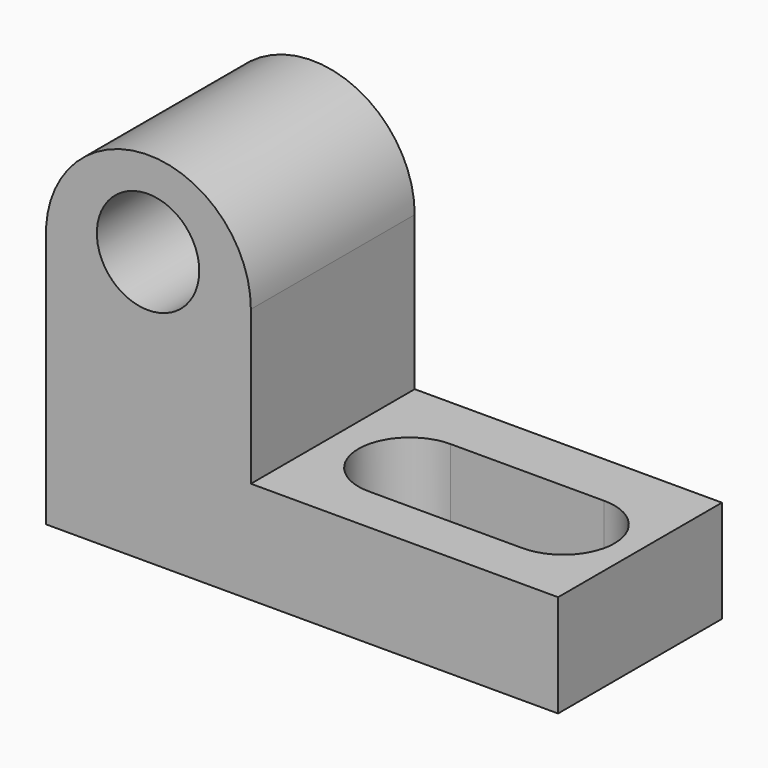
from build123d import *

# Parameters (mm, degrees)
F1_DEPTH = 25.4
F2_R     = 6.35
F3_DEPTH = 25.401
F4_W     = 19.05
F4_H     = 12.7
F5_DEPTH = 12.701
F7_DEPTH = 12.701
F9_DEPTH = 12.701


with BuildPart() as f1:
    # F0 (on Front) → F1 (new body)
    with BuildSketch(Plane.XZ):
        with BuildLine():
            ThreePointArc((-56.1432969581, 31.75), (-68.5042506108, 44.4547800567), (-81.5432969581, 32.4469541982))
            Line((-81.5432969581, 32.4469541982), (-81.5432969581, 0))
            Line((-81.5432969581, 0), (-18.0432969581, 0))
            Line((-18.0432969581, 0), (-18.0432969581, 12.7))
            Line((-18.0432969581, 12.7), (-56.1432969581, 12.7))
            Line((-56.1432969581, 12.7), (-56.1432969581, 31.75))
        make_face()
    extrude(amount=F1_DEPTH)

    # F2 (on face) → F3 (cut, through all)
    with BuildSketch(Plane.XZ.offset(25.4)):
        with Locations((-68.8975006342, 33.8503867388)):
            Circle(F2_R)
    extrude(amount=-F3_DEPTH, mode=Mode.SUBTRACT)

    # F4 (on face) → F5 (cut, through all)
    with BuildSketch(Plane.XY.offset(12.7)):
        with Locations((-36.7056755349, -13.1718035824)):
            Rectangle(F4_W, F4_H)
    extrude(amount=-F5_DEPTH, mode=Mode.SUBTRACT)

    # F6 (on face) → F7 (cut, through all)
    with BuildSketch(Plane.XY.offset(12.7)):
        with BuildLine():
            Line((-46.2306755349, -19.5218035824), (-46.2306755349, -6.8218035824))
            ThreePointArc((-46.2306755349, -6.8218035824), (-52.5806755349, -13.1718035824), (-46.2306755349, -19.5218035824))
        make_face()
    extrude(amount=-F7_DEPTH, mode=Mode.SUBTRACT)

    # F8 (on face) → F9 (cut, through all)
    with BuildSketch(Plane.XY.offset(12.7)):
        with BuildLine():
            Line((-27.1806755349, -6.8218035824), (-27.1806755349, -19.5218035824))
            ThreePointArc((-27.1806755349, -19.5218035824), (-20.8306755349, -13.1718035824), (-27.1806755349, -6.8218035824))
        make_face()
    extrude(amount=-F9_DEPTH, mode=Mode.SUBTRACT)


solid = f1.part
